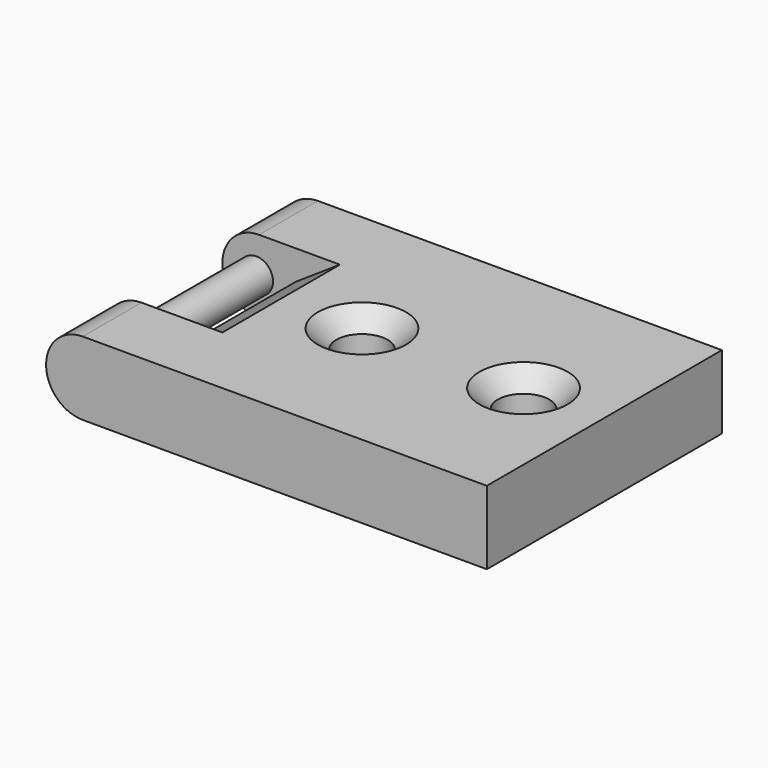
from build123d import *

# Parameters (mm, degrees)
F0_W            = 25
F0_H            = 20
F1_DEPTH        = 2.5
F3_DEPTH        = 5
F5_DEPTH        = 5
F6_R            = 1.15
F7_DEPTH        = 10
F8_SIZE2        = 2
F8_SIZE         = 3
F10_D           = 3.5
F10_CSINK_D     = 6
F10_CSINK_ANGLE = 90


with BuildPart() as f1:
    # F0 (on Top) → F1 (new body, symmetric)
    with BuildSketch(Plane.XY):
        Rectangle(F0_W, F0_H)
    extrude(amount=F1_DEPTH, both=True)

    # F2 (on face) → F3 (join)
    with BuildSketch(Plane(origin=(0, 10, 0), x_dir=(-1, 0, 0), z_dir=(0, 1, 0))):
        with BuildLine():
            ThreePointArc((15, -2.5), (16.767767, -1.767767), (17.5, 0))
            ThreePointArc((17.5, 0), (16.767767, 1.767767), (15, 2.5))
            ThreePointArc((15, 2.5), (13.232233, 1.767767), (12.5, 0))
            ThreePointArc((12.5, 0), (13.232233, -1.767767), (15, -2.5))
        make_face()
        with BuildLine():
            ThreePointArc((12.5, 0), (13.232233, 1.767767), (15, 2.5))
            Line((15, 2.5), (12.5, 2.5))
            Line((12.5, 2.5), (12.5, 0))
        make_face()
        with BuildLine():
            Line((12.5, -2.5), (15, -2.5))
            ThreePointArc((15, -2.5), (13.232233, -1.767767), (12.5, 0))
            Line((12.5, 0), (12.5, -2.5))
        make_face()
    extrude(amount=-F3_DEPTH)

    # F4 (on face) → F5 (join)
    with BuildSketch(Plane.XZ.offset(10)):
        with BuildLine():
            ThreePointArc((-15, -2.5), (-13.232233, -1.767767), (-12.5, 0))
            ThreePointArc((-12.5, 0), (-13.232233, 1.767767), (-15, 2.5))
            ThreePointArc((-15, 2.5), (-17.5, 0), (-15, -2.5))
        make_face()
        with BuildLine():
            Line((-12.5, -2.5), (-12.5, 0))
            ThreePointArc((-12.5, 0), (-13.232233, -1.767767), (-15, -2.5))
            Line((-15, -2.5), (-12.5, -2.5))
        make_face()
        with BuildLine():
            ThreePointArc((-15, 2.5), (-13.232233, 1.767767), (-12.5, 0))
            Line((-12.5, 0), (-12.5, 2.5))
            Line((-12.5, 2.5), (-15, 2.5))
        make_face()
    extrude(amount=-F5_DEPTH)

    # F6 (on face) → F7 (join)
    with BuildSketch(Plane(origin=(0, -5, 0), x_dir=(-1, 0, 0), z_dir=(0, 1, 0))):
        with Locations((15.2, 0)):
            Circle(F6_R)
    extrude(amount=F7_DEPTH)

    # F8
    f8_edges = [f1.edges().sort_by_distance(p)[0] for p in [
        (-12.5, 0, -2.5),
        (-12.5, 0, 2.5),
    ]]
    chamfer(f8_edges, length=F8_SIZE, length2=F8_SIZE2)

    # F10 (through all)
    with Locations(Plane.XY.offset(2.5)):
        with Locations((-4, 0), (7, 0)):
            CounterSinkHole(F10_D / 2, F10_CSINK_D / 2, counter_sink_angle=F10_CSINK_ANGLE)


solid = f1.part
